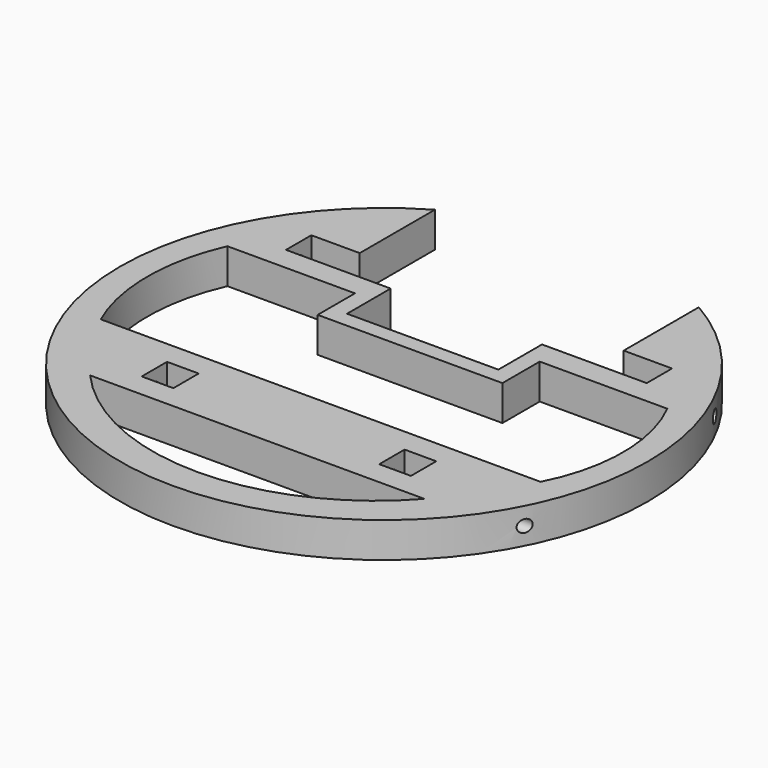
from build123d import *

# Parameters (mm, degrees)
SKETCH_R             = 30
PAD_DEPTH            = 4
SKETCH001_W          = 3.6
SKETCH001_H          = 3.6
POCKET_DEPTH         = 5
SKETCH002_W          = 41
SKETCH002_H          = 3.6
POCKET001_DEPTH      = 5
SKETCH003_W          = 30
SKETCH003_H          = 18
POCKET002_DEPTH      = 5
POCKET003_DEPTH      = 5
SKETCH005_R          = 0.7
POCKET004_DEPTH      = 14.701
POCKET004_DEPTH_BACK = -45.301
SKETCH006_R          = 0.7
POCKET005_DEPTH      = 9.501
POCKET005_DEPTH_BACK = -50.501
SKETCH007_W          = 21
SKETCH007_H          = 5.3
PAD001_DEPTH         = 4
SKETCH008_W          = 17.2
SKETCH008_H          = 6.2
POCKET006_DEPTH      = 5


with BuildPart() as part:
    # Sketch → Pad (new body)
    with BuildSketch(Plane.XY):
        Circle(SKETCH_R)
    extrude(amount=PAD_DEPTH)

    # Sketch001 (on Face3 of Pad) → Pocket (cut)
    with BuildSketch(Plane.XY.offset(4)):
        with Locations((-13.5, -13.5)):
            Rectangle(SKETCH001_W, SKETCH001_H)
        with Locations((13.5, -13.5)):
            Rectangle(SKETCH001_W, SKETCH001_H)
    extrude(amount=-POCKET_DEPTH, mode=Mode.SUBTRACT)

    # Sketch002 (on Face3 of Pocket) → Pocket001 (cut)
    with BuildSketch(Plane.XY.offset(4)):
        with Locations((0, 13.5)):
            Rectangle(SKETCH002_W, SKETCH002_H)
    extrude(amount=-POCKET001_DEPTH, mode=Mode.SUBTRACT)

    # Sketch003 (on Face3 of Pocket001) → Pocket002 (cut)
    with BuildSketch(Plane.XY.offset(4)):
        with Locations((0, 24.3)):
            Rectangle(SKETCH003_W, SKETCH003_H)
    extrude(amount=-POCKET002_DEPTH, mode=Mode.SUBTRACT)

    # Sketch004 (on Face3 of Pocket002) → Pocket003 (cut)
    with BuildSketch(Plane.XY.offset(4)):
        with BuildLine():
            Line((-25, 9), (25, 9))
            ThreePointArc((25, -9), (27.170645, 0), (25, 9))
            Line((-25, -9), (25, -9))
            ThreePointArc((-25, 9), (-26.90179, 0), (-25, -9))
        make_face()
        with BuildLine():
            Line((-19, -18), (19, -18))
            ThreePointArc((-19, -18), (0, -26.556025), (19, -18))
        make_face()
    extrude(amount=-POCKET003_DEPTH, mode=Mode.SUBTRACT)

    # Sketch005 (on Face12 of Pocket003) → Pocket004 (cut, two sides)
    with BuildSketch(Plane.YZ.offset(-15.3)) as pocket004_sk:
        with Locations((-13.5, 2)):
            Circle(SKETCH005_R)
    extrude(amount=-POCKET004_DEPTH, mode=Mode.SUBTRACT)
    extrude(pocket004_sk.sketch, amount=-POCKET004_DEPTH_BACK, mode=Mode.SUBTRACT)

    # Sketch006 (on Face6 of Pocket004) → Pocket005 (cut, two sides)
    with BuildSketch(Plane.YZ.offset(-20.5)) as pocket005_sk:
        with Locations((13.5, 2)):
            Circle(SKETCH006_R)
    extrude(amount=-POCKET005_DEPTH, mode=Mode.SUBTRACT)
    extrude(pocket005_sk.sketch, amount=-POCKET005_DEPTH_BACK, mode=Mode.SUBTRACT)

    # Sketch007 (on Face24 of Pocket005) → Pad001 (join)
    with BuildSketch(Plane.XY.offset(4)):
        with Locations((0, 6.35)):
            Rectangle(SKETCH007_W, SKETCH007_H)
    extrude(amount=-PAD001_DEPTH)

    # Sketch008 (on Face26 of Pad001) → Pocket006 (cut)
    with BuildSketch(Plane.XY.offset(4)):
        with Locations((0, 8.6)):
            Rectangle(SKETCH008_W, SKETCH008_H)
    extrude(amount=-POCKET006_DEPTH, mode=Mode.SUBTRACT)


solid = part.part
